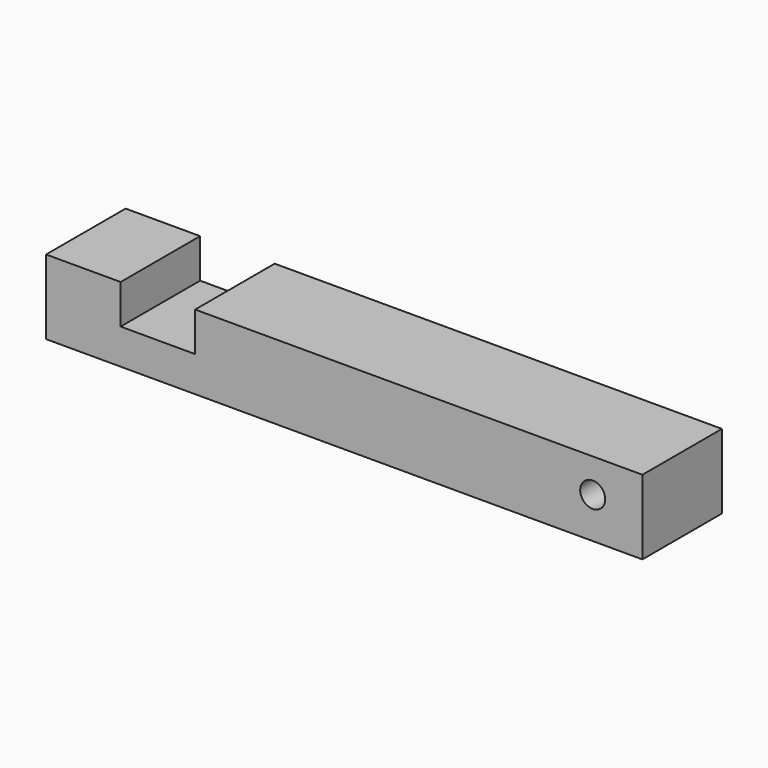
from build123d import *

# Parameters (mm, degrees)
F0_W     = 19.05
F0_H     = 10.024884
F0_R     = 3.2004
F1_DEPTH = 25.4
F2_DEPTH = 19.05
F3_DEPTH = 25.4


with BuildPart() as f1:
    # F0 (on Front) → F1 (new body)
    with BuildSketch(Plane.XZ):
        with Locations((47.891052, 14.037558)):
            Rectangle(F0_W, F0_H)
        Polygon((19.316052, 0), (171.716052, 0), (171.716052, 19.05), (57.416052, 19.05), (57.416052, 9.025116), (38.366052, 9.025116), (38.366052, 19.05), (19.316052, 19.05), align=None)
        with Locations((159.016052, 10.429697)):
            Circle(F0_R, mode=Mode.SUBTRACT)
    extrude(amount=F1_DEPTH)

    # F0 (on Front) → F2 (join)
    with BuildSketch(Plane.XZ):
        with Locations((47.891052, 14.037558)):
            Rectangle(F0_W, F0_H)
    extrude(amount=F2_DEPTH)

    # F0 (on Front) → F3 (cut)
    with BuildSketch(Plane.XZ):
        with Locations((47.891052, 14.037558)):
            Rectangle(F0_W, F0_H)
    extrude(amount=F3_DEPTH, mode=Mode.SUBTRACT)


solid = f1.part
